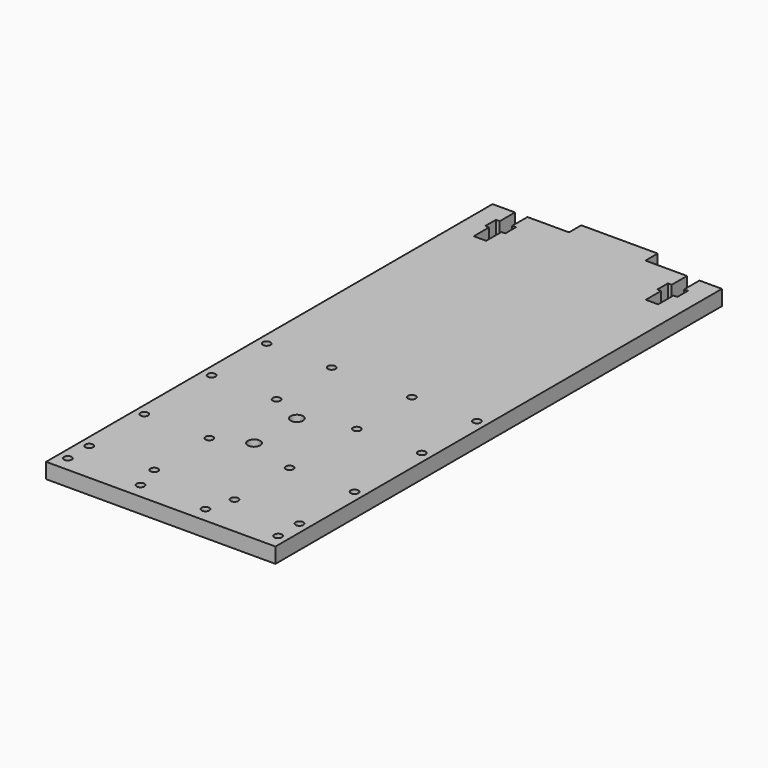
from build123d import *

# Parameters (mm, degrees)
F0_R     = 2
F1_DEPTH = 8
F2_R     = 3.25
F3_DEPTH = 8.001


with BuildPart() as f1:
    # F0 (on Top) → F1 (new body)
    with BuildSketch(Plane.XY):
        Polygon((60, -80), (60, 212), (48.25, 212), (48.25, 202), (50.25, 202), (50.25, 195), (48.25, 195), (48.25, 185), (41.75, 185), (41.75, 195), (39.75, 195), (39.75, 202), (41.75, 202), (41.75, 212), (20, 212), (20, 220), (-20, 220), (-20, 212), (-41.75, 212), (-41.75, 202), (-39.75, 202), (-39.75, 195), (-41.75, 195), (-41.75, 185), (-48.25, 185), (-48.25, 195), (-50.25, 195), (-50.25, 202), (-48.25, 202), (-48.25, 212), (-60, 212), (-60, -80), align=None)
        with Locations((-55, -72)):
            Circle(F0_R, mode=Mode.SUBTRACT)
        with Locations((-55, -58)):
            Circle(F0_R, mode=Mode.SUBTRACT)
        with Locations((-55, -22)):
            Circle(F0_R, mode=Mode.SUBTRACT)
        with Locations((-17, -72)):
            Circle(F0_R, mode=Mode.SUBTRACT)
        with Locations((-21, -58)):
            Circle(F0_R, mode=Mode.SUBTRACT)
        with Locations((-21, -22)):
            Circle(F0_R, mode=Mode.SUBTRACT)
        with Locations((-55, 22)):
            Circle(F0_R, mode=Mode.SUBTRACT)
        with Locations((-55, 58)):
            Circle(F0_R, mode=Mode.SUBTRACT)
        with Locations((-21, 22)):
            Circle(F0_R, mode=Mode.SUBTRACT)
        with Locations((-21, 58)):
            Circle(F0_R, mode=Mode.SUBTRACT)
        with Locations((17, -72)):
            Circle(F0_R, mode=Mode.SUBTRACT)
        with Locations((21, -58)):
            Circle(F0_R, mode=Mode.SUBTRACT)
        with Locations((21, -22)):
            Circle(F0_R, mode=Mode.SUBTRACT)
        with Locations((55, -72)):
            Circle(F0_R, mode=Mode.SUBTRACT)
        with Locations((55, -58)):
            Circle(F0_R, mode=Mode.SUBTRACT)
        with Locations((55, -22)):
            Circle(F0_R, mode=Mode.SUBTRACT)
        with Locations((21, 22)):
            Circle(F0_R, mode=Mode.SUBTRACT)
        with Locations((21, 58)):
            Circle(F0_R, mode=Mode.SUBTRACT)
        with Locations((55, 22)):
            Circle(F0_R, mode=Mode.SUBTRACT)
        with Locations((55, 58)):
            Circle(F0_R, mode=Mode.SUBTRACT)
    extrude(amount=F1_DEPTH)

    # F2 (on face) → F3 (cut, through all)
    with BuildSketch(Plane.XY.offset(8)):
        with Locations((-4, 14)):
            Circle(F2_R)
        with Locations((-4, -14)):
            Circle(F2_R)
    extrude(amount=-F3_DEPTH, mode=Mode.SUBTRACT)


solid = f1.part
